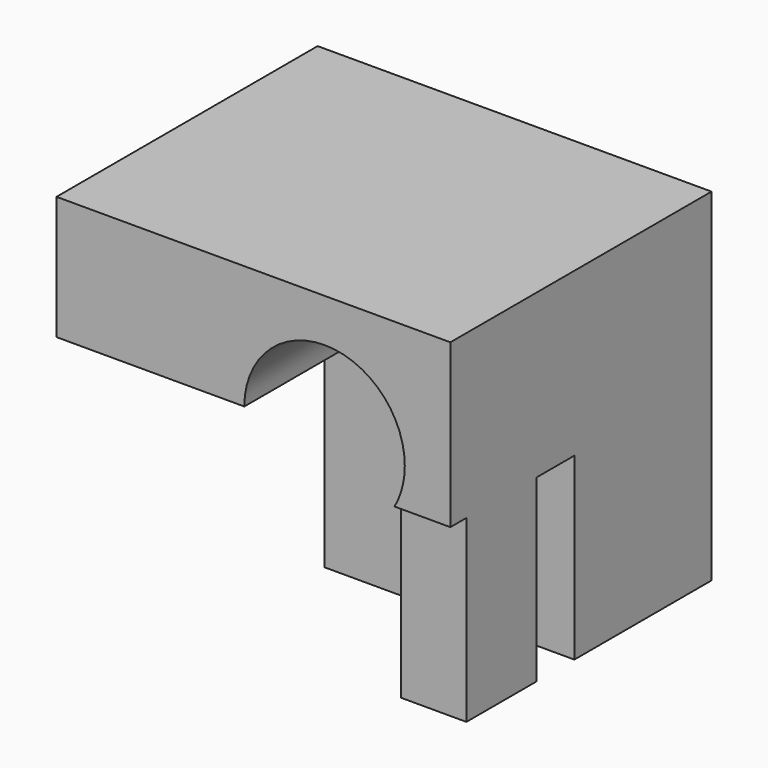
from build123d import *

# Parameters (mm, degrees)
F5_W      = 7.9
F5_H      = 0.9
F5_W_2    = 3.6
F5_H_2    = 4.8
F5_W_3    = 13.7
F6_DEPTH  = 6.775
F7_DEPTH  = 12
F10_DEPTH = 2.15
F11_D     = 8.8
F8_R      = 5.975
F8_R_2    = 4.3
F12_DEPTH = 8.5


with BuildPart() as f6:
    # F5 (on Top) → F6 (new body)
    with BuildSketch(Plane.XY):
        with Locations((-6.85, 4.7)):
            Rectangle(F5_W, F5_H)
        with Locations((9, -0.75)):
            Rectangle(F5_W_2, F5_H_2)
        Polygon((-10.8, 4.25), (-10.8, -4.25), (10.8, -4.25), (10.8, -3.15), (7.2, -3.15), (7.2, 1.65), (10.8, 1.65), (10.8, 4.25), (-2.9, 4.25), align=None)
        with Locations((3.95, 4.7)):
            Rectangle(F5_W_3, F5_H)
    extrude(amount=F6_DEPTH)

    # F5 (on Top) → F7 (join)
    with BuildSketch(Plane.XY):
        with Locations((3.95, 4.7)):
            Rectangle(F5_W_3, F5_H)
        with Locations((9, -0.75)):
            Rectangle(F5_W_2, F5_H_2)
    extrude(amount=-F7_DEPTH)

    # F9 (on face) → F10 (join)
    with BuildSketch(Plane(origin=(0, 0, 0), x_dir=(1, 0, 0), z_dir=(0, 0, -1))):
        Polygon((3.95, 4.25), (3.95, -4.25), (10.8, -4.25), (10.8, -1.65), (7.2, -1.65), (7.2, 3.15), (10.8, 3.15), (10.8, 4.25), align=None)
    extrude(amount=F10_DEPTH)

    # F11 (through all)
    with Locations(Plane(origin=(0, 5.15, 0), x_dir=(-1, 0, 0), z_dir=(0, 1, 0))):
        with Locations((-3.9, 0)):
            Hole(F11_D / 2)

    # F8 (on face) → F12 (join)
    with BuildSketch(Plane(origin=(0, 5.15, 0), x_dir=(-1, 0, 0), z_dir=(0, 1, 0))):
        Polygon((10.8, 6.775), (-10.8, 6.775), (-10.8, -12), (2.9, -12), (2.9, 0), (10.8, 0), align=None)
        with Locations((-3.9, 0)):
            Circle(F8_R, mode=Mode.SUBTRACT)
        with Locations((-3.9, 0)):
            Circle(F8_R)
        with Locations((-3.9, 0)):
            Circle(F8_R_2, mode=Mode.SUBTRACT)
    extrude(amount=F12_DEPTH)


solid = f6.part
